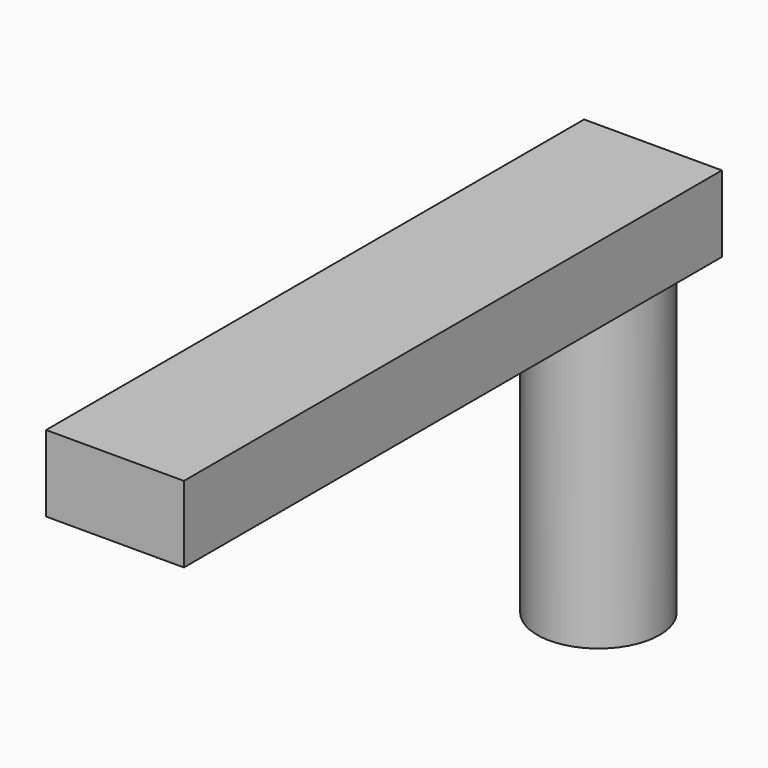
from build123d import *

# Parameters (mm, degrees)
F0_W     = 439.142168
F0_H     = 49.780786
F1_DEPTH = 90
F3_R     = 39.931941
F4_DEPTH = 200


with BuildPart() as f1:
    # F0 (on Right) → F1 (new body)
    with BuildSketch(Plane.YZ):
        with Locations((-219.571084, 24.890393)):
            Rectangle(F0_W, F0_H)
    extrude(amount=F1_DEPTH)

    # F3 (on face) → F4 (join)
    with BuildSketch(Plane(origin=(0, 0, 0), x_dir=(1, 0, 0), z_dir=(0, 0, -1))):
        with Locations((46.052203, 45.837238)):
            Circle(F3_R)
    extrude(amount=F4_DEPTH)


solid = f1.part
